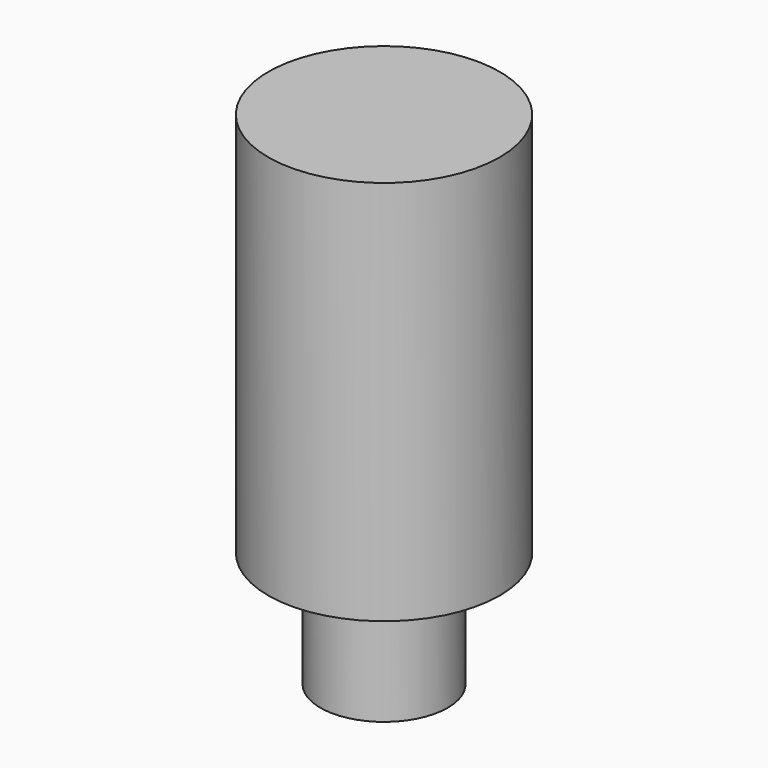
from build123d import *

# Parameters (mm, degrees)
CYLINDER026_R     = 1.65
CYLINDER026_DEPTH = 10
CYLINDER027_R     = 3
CYLINDER027_DEPTH = 10


with BuildPart() as cylinder026:
    # Cylinder026 → Cylinder026 (new body)
    with BuildSketch(Plane(origin=(10, 4.7, 0), x_dir=(1, 0, 0), z_dir=(0, 0, 1))):
        Circle(CYLINDER026_R)
    extrude(amount=CYLINDER026_DEPTH)


with BuildPart() as case_bolt007:
    # Cylinder027 → Cylinder027 (new body)
    with BuildSketch(Plane(origin=(10, 4.7, 3), x_dir=(1, 0, 0), z_dir=(0, 0, 1))):
        Circle(CYLINDER027_R)
    extrude(amount=CYLINDER027_DEPTH)

    # Fusion010004007026: union Cylinder026
    add(cylinder026.part)


solid = case_bolt007.part
